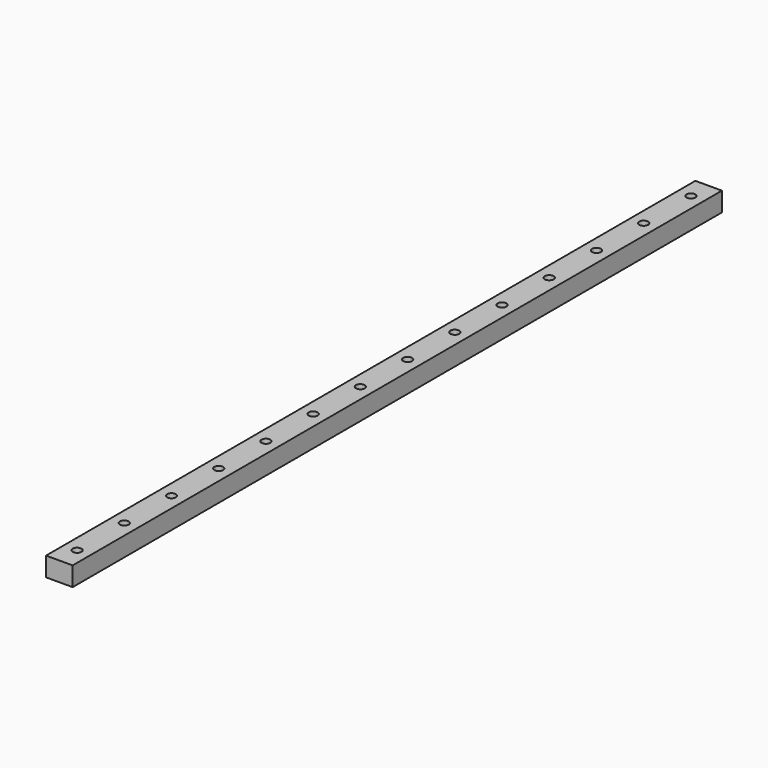
from build123d import *

# Parameters (mm, degrees)
SKETCH001_W         = 9
SKETCH001_H         = 275
PAD001_DEPTH        = 6.5
SKETCH002_R         = 1.5
POCKET_DEPTH        = 6.5
LINEARPATTERN_COUNT = 14
LINEARPATTERN_PITCH = 20


with BuildPart() as part:
    # Sketch001 → Pad001 (new body)
    with BuildSketch(Plane.XY):
        with Locations((-4.5, 137.5)):
            Rectangle(SKETCH001_W, SKETCH001_H)
    extrude(amount=PAD001_DEPTH)

    # Sketch002 (on Face6 of Pad001) → Pocket (cut)
    with BuildSketch(Plane.XY.offset(6.5)):
        with Locations((-4.5, 7.5)):
            Circle(SKETCH002_R)
    pocket = extrude(amount=-POCKET_DEPTH, mode=Mode.SUBTRACT)

    # LinearPattern: Pocket ×14
    with Locations(*[(0, i * LINEARPATTERN_PITCH, 0) for i in range(1, LINEARPATTERN_COUNT)]):
        add(pocket, mode=Mode.SUBTRACT)


solid = part.part
